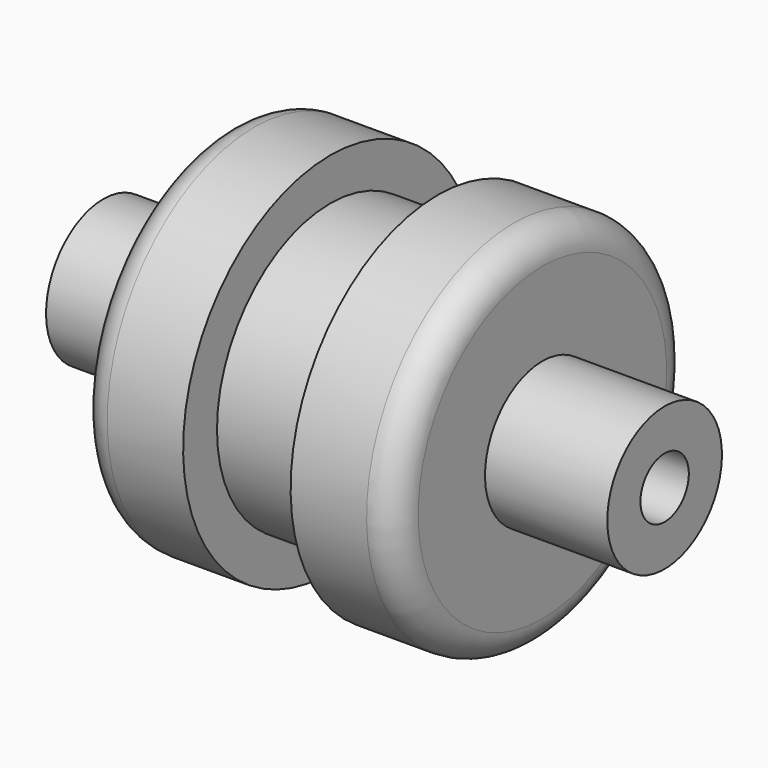
from build123d import *

# Parameters (mm, degrees)
F2_R = 5.08
F3_W = 19.05
F3_H = 9.8322601712
F6_D = 10.71626


with BuildPart() as f1:
    # F0 (on Front) → F1 (revolve)
    with BuildSketch(Plane.XZ):
        Polygon((-49.7342673447, 12.7), (-49.7342673447, 0), (49.7342673447, 0), (49.7342673447, 12.7), (28.0643354135, 12.7), (28.0643354135, 32.593707693), (-28.0643354135, 32.593707693), (-28.0643354135, 12.7), align=None)
    revolve(axis=Axis((0, 0, 0), (-1, 0, 0)))

    # F2
    f2_edges = [f1.edges().sort_by_distance(p)[0] for p in [
        (28.064335, 0, -32.593708),
        (-28.064335, 0, -32.593708),
    ]]
    fillet(f2_edges, radius=F2_R)

    # F3 (on Front) → F4 (revolve, cut)
    with BuildSketch(Plane.XZ):
        with Locations((0, 30.0088699144)):
            Rectangle(F3_W, F3_H)
    revolve(axis=Axis((28.0643354135, 0, 0), (-1, 0, 0)), mode=Mode.SUBTRACT)

    # F6 (through all)
    with Locations(Plane.YZ.offset(49.7342673447)):
        with Locations((0, 0)):
            Hole(F6_D / 2)


solid = f1.part
